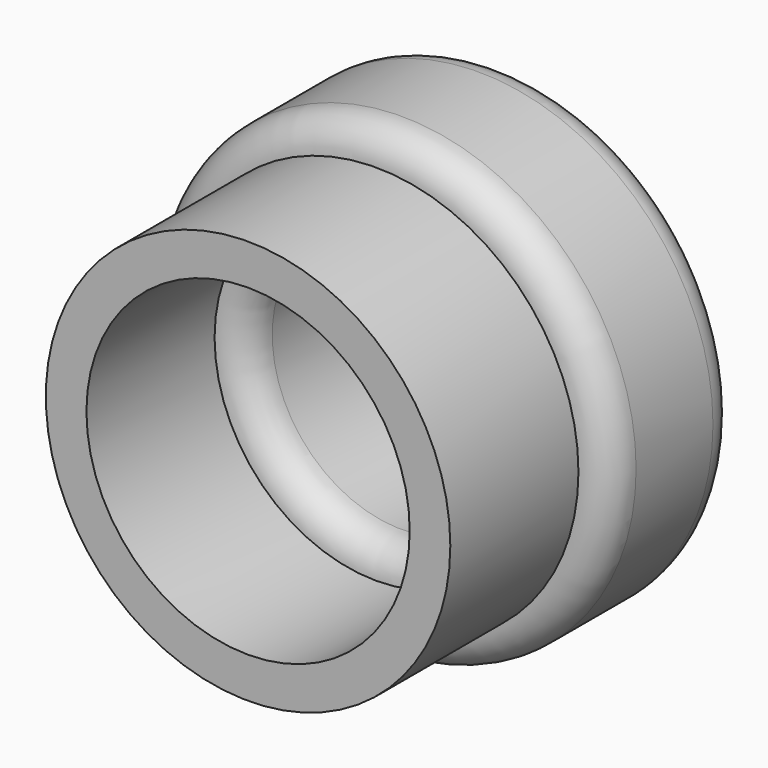
from build123d import *

# Parameters (mm, degrees)
F0_R     = 36.5696932785
F0_R_2   = 20.2309994717
F1_DEPTH = 25
F2_R     = 5
F3_R     = 5
F4_R     = 5
F5_R     = 5
F6_DEPTH = 25


with BuildPart() as f1:
    # F0 (on Front) → F1 (new body)
    with BuildSketch(Plane.XZ):
        Circle(F0_R)
        Circle(F0_R_2, mode=Mode.SUBTRACT)
    extrude(amount=F1_DEPTH)

    # F2
    f2_edges = [f1.edges().sort_by_distance(p)[0] for p in [
        (-20.230999, -25, 0),
    ]]
    fillet(f2_edges, radius=F2_R)

    # F3
    f3_edges = [f1.edges().sort_by_distance(p)[0] for p in [
        (-20.230999, 0, 0),
    ]]
    fillet(f3_edges, radius=F3_R)

    # F4
    f4_edges = [f1.edges().sort_by_distance(p)[0] for p in [
        (-36.569693, 0, 0),
    ]]
    fillet(f4_edges, radius=F4_R)

    # F5
    f5_edges = [f1.edges().sort_by_distance(p)[0] for p in [
        (-36.569693, -25, 0),
    ]]
    fillet(f5_edges, radius=F5_R)

    # F6 (add): a face of the model
    f6_faces = [f1.faces().sort_by_distance(p)[0] for p in [
        (-30.6767675107, -25, 0),
    ]]
    extrude(f6_faces, amount=F6_DEPTH)


solid = f1.part
